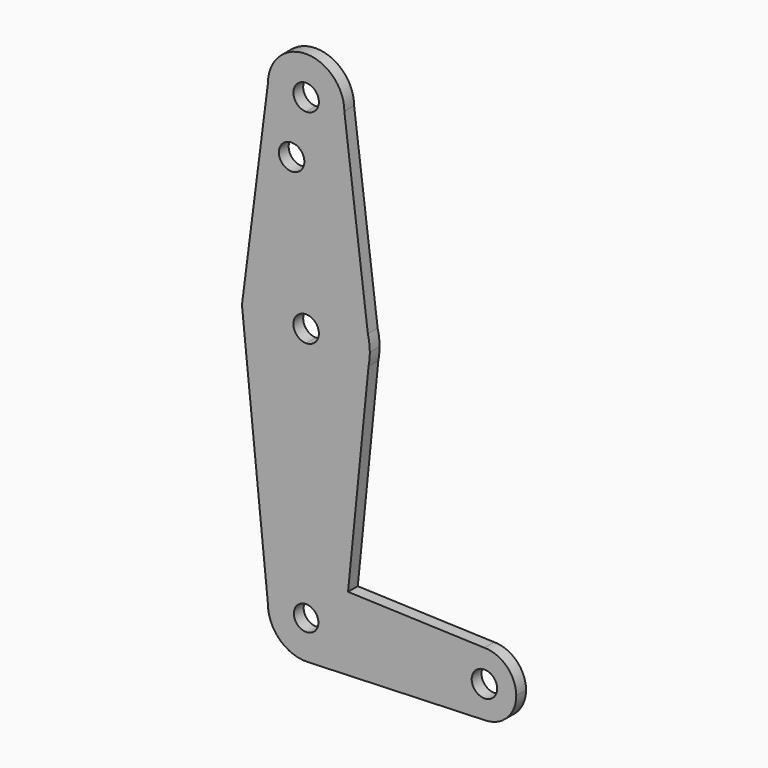
from build123d import *

# Parameters (mm, degrees)
F0_R     = 3.175
F1_DEPTH = 3.048


with BuildPart() as f1:
    # F0 (on Front) → F1 (new body)
    with BuildSketch(Plane.XZ):
        with BuildLine():
            Line((15.3865384615, 3.9076923077), (15.875, 0))
            ThreePointArc((15.875, 0), (15.7524112928, 1.9690514116), (15.3865384615, 3.9076923077))
        make_face()
        with BuildLine():
            Line((15.5606435644, -3.1435643564), (15.875, 0))
            Line((15.875, 0), (15.3865384615, 3.9076923077))
            ThreePointArc((15.3865384615, 3.9076923077), (9.7463072395, 12.5309664508), (0, 15.875))
            Line((0, 15.875), (0, 3.175))
            ThreePointArc((0, 3.175), (2.2450640303, 2.2450640303), (3.175, 0))
            ThreePointArc((3.175, 0), (2.2450640303, -2.2450640303), (0, -3.175))
            Line((0, -3.175), (0, -15.875))
            ThreePointArc((0, -15.875), (10.0526499203, -12.2865721249), (15.5606435644, -3.1435643564))
        make_face()
        with BuildLine():
            ThreePointArc((15.5606435644, -3.1435643564), (15.7962153946, -1.5796215395), (15.875, 0))
            Line((15.875, 0), (15.5606435644, -3.1435643564))
        make_face()
        with BuildLine():
            ThreePointArc((0, 15.875), (9.7463072395, 12.5309664508), (15.3865384615, 3.9076923077))
            Line((15.3865384615, 3.9076923077), (9.525, 50.8))
            ThreePointArc((9.525, 50.8), (6.7351920908, 44.0648079092), (0, 41.275))
            Line((0, 41.275), (0, 15.875))
        make_face()
        with BuildLine():
            Line((10.4406800742, -54.3431992582), (15.5606435644, -3.1435643564))
            ThreePointArc((15.5606435644, -3.1435643564), (10.0526499203, -12.2865721249), (0, -15.875))
            Line((0, -15.875), (0, -53.9688804247))
            Line((0, -53.9688804247), (0.3412706536, -53.9811156462))
            Line((0.3412706536, -53.9811156462), (10.4406800742, -54.3431992582))
        make_face()
        with BuildLine():
            Line((0, 3.175), (0, 15.875))
            ThreePointArc((0, 15.875), (-10.4912827447, 11.9142188737), (-15.7474568676, 2.0082896216))
            ThreePointArc((-15.7474568676, 2.0082896216), (-11.9142188737, -10.4912827447), (0, -15.875))
            Line((0, -15.875), (0, -3.175))
            ThreePointArc((0, -3.175), (-3.175, 0), (0, 3.175))
        make_face()
        with BuildLine():
            ThreePointArc((-15.7474568676, 2.0082896216), (-10.4912827447, 11.9142188737), (0, 15.875))
            Line((0, 15.875), (0, 41.275))
            ThreePointArc((0, 41.275), (-6.7351920908, 44.0648079092), (-9.525, 50.8))
            Line((-9.525, 50.8), (-15.7474568676, 2.0082896216))
        make_face()
        with Locations((-3.6232543644, 36.5252)):
            Circle(F0_R, mode=Mode.SUBTRACT)
        with BuildLine():
            ThreePointArc((0, 41.275), (6.7351920908, 44.0648079092), (9.525, 50.8))
            ThreePointArc((9.525, 50.8), (0, 60.325), (-9.525, 50.8))
            ThreePointArc((-9.525, 50.8), (-6.7351920908, 44.0648079092), (0, 41.275))
        make_face()
        with BuildLine():
            ThreePointArc((3.175, 50.8), (2.2450640303, 48.5549359697), (0, 47.625))
            ThreePointArc((0, 47.625), (-2.2450640303, 53.0450640303), (3.175, 50.8))
        make_face(mode=Mode.SUBTRACT)
        with BuildLine():
            Line((0, -53.9688804247), (0, -15.875))
            ThreePointArc((0, -15.875), (-11.9142188737, -10.4912827447), (-15.7474568676, 2.0082896216))
            Line((-15.7474568676, 2.0082896216), (-16.0035761028, 0))
            Line((-16.0035761028, 0), (-9.525, -63.5))
            ThreePointArc((-9.525, -63.5), (-6.7351920908, -56.7648079092), (0, -53.975))
            Line((0, -53.975), (0, -53.9688804247))
        make_face()
        with BuildLine():
            Line((44.45, -55.5625), (10.4406800742, -54.3431992582))
            Line((10.4406800742, -54.3431992582), (0.3412706536, -53.9811156462))
            ThreePointArc((0.3412706536, -53.9811156462), (6.8547876691, -56.8865658685), (9.525, -63.5))
            Line((9.525, -63.5), (36.5125, -63.5))
            ThreePointArc((36.5125, -63.5), (38.8373399243, -57.8873399243), (44.45, -55.5625))
        make_face()
        with BuildLine():
            ThreePointArc((52.3875, -63.5), (50.0626600757, -57.8873399243), (44.45, -55.5625))
            ThreePointArc((44.45, -55.5625), (38.8373399243, -57.8873399243), (36.5125, -63.5))
            ThreePointArc((36.5125, -63.5), (38.8373399243, -69.1126600757), (44.45, -71.4375))
            ThreePointArc((44.45, -71.4375), (50.0626600757, -69.1126600757), (52.3875, -63.5))
        make_face()
        with BuildLine():
            ThreePointArc((47.625, -63.5), (44.45, -66.675), (41.275, -63.5))
            ThreePointArc((41.275, -63.5), (44.45, -60.325), (47.625, -63.5))
        make_face(mode=Mode.SUBTRACT)
        with BuildLine():
            Line((0, -60.443014054), (0, -53.975))
            ThreePointArc((0, -53.975), (-6.7351920908, -56.7648079092), (-9.525, -63.5))
            ThreePointArc((-9.525, -63.5), (-6.613434162, -70.3547876396), (0.3412705689, -73.0188843568))
            ThreePointArc((0.3412705689, -73.0188843568), (6.8547876396, -70.113434162), (9.525, -63.5))
            Line((9.525, -63.5), (3.056985946, -63.5))
            ThreePointArc((3.056985946, -63.5), (-2.1616154924, -65.6616154924), (0, -60.443014054))
        make_face()
        with BuildLine():
            ThreePointArc((44.45, -71.4375), (38.8373399243, -69.1126600757), (36.5125, -63.5))
            Line((36.5125, -63.5), (9.525, -63.5))
            ThreePointArc((9.525, -63.5), (6.8547876396, -70.113434162), (0.3412705689, -73.0188843568))
            Line((0.3412705689, -73.0188843568), (44.45, -71.4375))
        make_face()
        with BuildLine():
            ThreePointArc((9.525, -63.5), (6.8547876691, -56.8865658685), (0.3412706536, -53.9811156462))
            ThreePointArc((0.3412706536, -53.9811156462), (0.170662723, -53.9765290343), (0, -53.975))
            Line((0, -53.975), (0, -60.443014054))
            ThreePointArc((0, -60.443014054), (2.1616154924, -61.3383845076), (3.056985946, -63.5))
            Line((3.056985946, -63.5), (9.525, -63.5))
        make_face()
    extrude(amount=F1_DEPTH)


solid = f1.part
